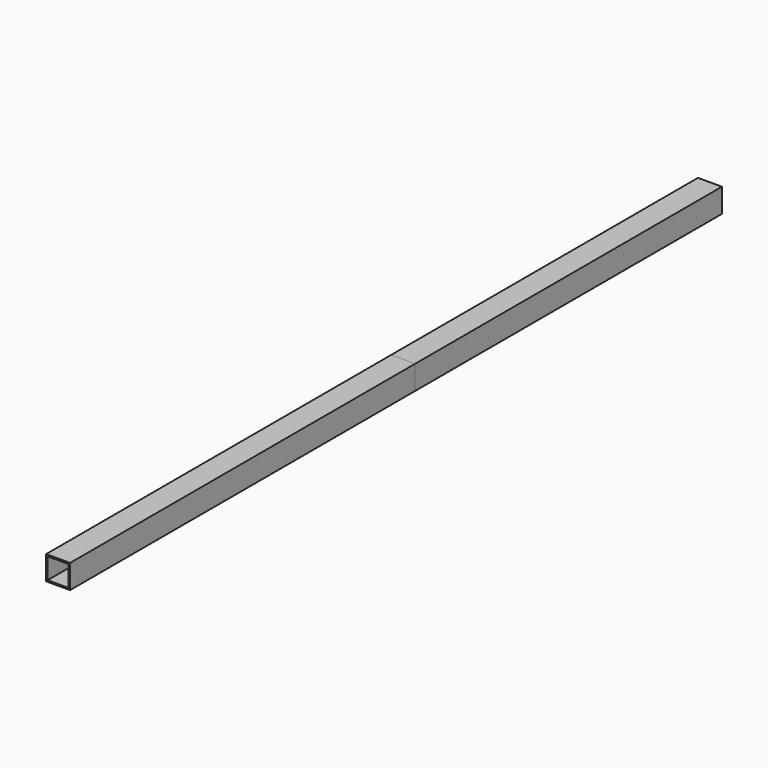
from build123d import *

# Parameters (mm, degrees)
F0_W     = 25.4
F0_H     = 25.4
F0_W_2   = 22.225
F0_H_2   = 22.225
F1_DEPTH = 584.2
F2_DEPTH = 863.6
F3_DEPTH = 304.8
F4_DEPTH = 457.2


with BuildPart() as f1:
    # F0 (on Front) → F1 (new body)
    with BuildSketch(Plane.XZ):
        Rectangle(F0_W, F0_H)
        Rectangle(F0_W_2, F0_H_2, mode=Mode.SUBTRACT)
    extrude(amount=-F1_DEPTH)


with BuildPart() as f2:
    # F0 (on Front) → F2 (new body)
    with BuildSketch(Plane.XZ):
        Rectangle(F0_W, F0_H)
        Rectangle(F0_W_2, F0_H_2, mode=Mode.SUBTRACT)
    extrude(amount=-F2_DEPTH)


with BuildPart() as f3:
    # F0 (on Front) → F3 (new body)
    with BuildSketch(Plane.XZ):
        Rectangle(F0_W, F0_H)
        Rectangle(F0_W_2, F0_H_2, mode=Mode.SUBTRACT)
    extrude(amount=-F3_DEPTH)


with BuildPart() as f4:
    # F0 (on Front) → F4 (new body)
    with BuildSketch(Plane.XZ):
        Rectangle(F0_W, F0_H)
        Rectangle(F0_W_2, F0_H_2, mode=Mode.SUBTRACT)
    extrude(amount=-F4_DEPTH)


solid = Compound([f1.part, f2.part, f3.part, f4.part])
